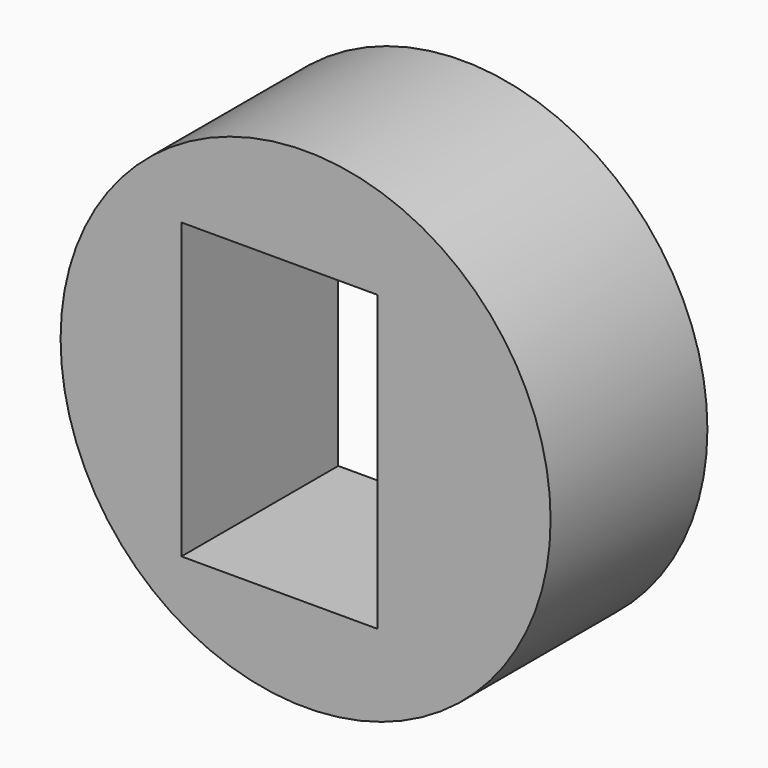
from build123d import *

# Parameters (mm, degrees)
F0_R     = 31.75
F1_DEPTH = 25.4
F2_R     = 31.75
F2_W     = 25.4
F2_H     = 38.1
F3_DEPTH = 31.242


with BuildPart() as f1:
    # F0 (on Front) → F1 (new body)
    with BuildSketch(Plane.XZ):
        with Locations((-48.727896, 9.324474)):
            Circle(F0_R)
    extrude(amount=F1_DEPTH)

    # F2 (on face) → F3 (intersect)
    with BuildSketch(Plane.XZ.offset(25.4)):
        with Locations((-48.727896, 9.324474)):
            Circle(F2_R)
        with Locations((-52.116488, 8.636362)):
            Rectangle(F2_W, F2_H, mode=Mode.SUBTRACT)
    extrude(amount=-F3_DEPTH, mode=Mode.INTERSECT)


solid = f1.part
